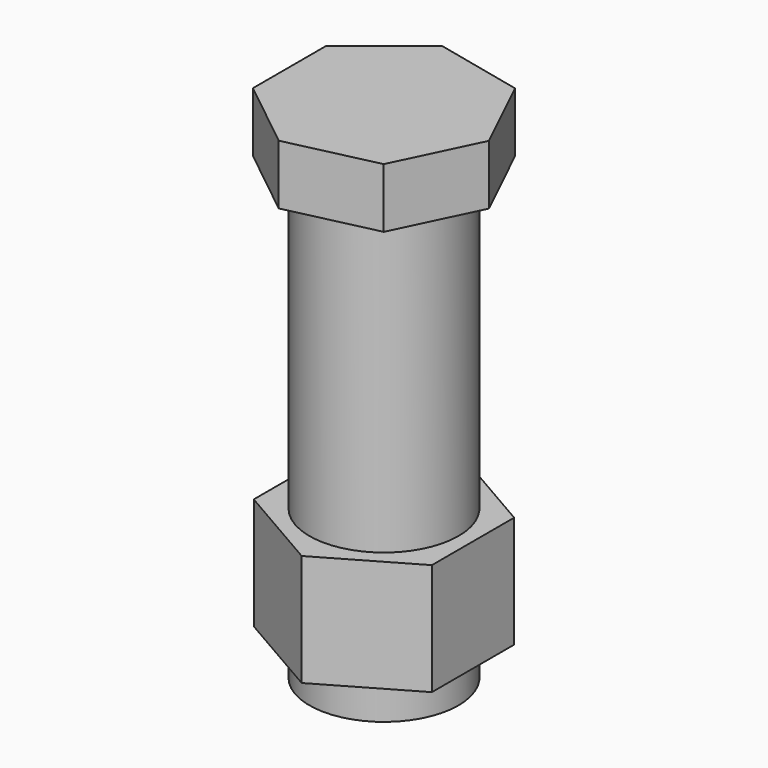
from build123d import *

# Parameters (mm, degrees)
F0_R      = 12.7
F1_DEPTH  = 76.2
F2_R      = 12.7
F3_DEPTH  = 10.16
F4_R      = 12.7
F5_DEPTH  = 25.4
F5_FACE_R = 12.7
F6_DEPTH  = 6.35


with BuildPart() as f1:
    # F0 (on Top) → F1 (new body)
    with BuildSketch(Plane.XY):
        Circle(F0_R)
    extrude(amount=F1_DEPTH)

    # F2 (on face) → F3 (join)
    with BuildSketch(Plane.XY.offset(76.2)):
        Polygon((-16.112782, 7.759507), (-16.112782, -7.759507), (-3.979529, -17.435454), (11.150391, -13.982148), (17.883839, 0), (11.150391, 13.982148), (-3.979529, 17.435454), align=None)
        Circle(F2_R, mode=Mode.SUBTRACT)
        Circle(F2_R)
    extrude(amount=F3_DEPTH)


with BuildPart() as f5:
    # F4 (on face) → F5 (new body)
    with BuildSketch(Plane(origin=(0, 0, 0), x_dir=(1, 0, 0), z_dir=(0, 0, -1))):
        Polygon((-15.171483, 8.75926), (-15.171483, -8.75926), (0, -17.518519), (15.171483, -8.75926), (15.171483, 8.75926), (0, 17.518519), align=None)
        Circle(F4_R, mode=Mode.SUBTRACT)
    extrude(amount=-F5_DEPTH)

    # F5_face (on face) → F6 (cut)
    with BuildSketch(Plane(origin=(0, 0, 0), x_dir=(1, 0, 0), z_dir=(0, 0, -1))):
        Polygon((-15.171483, 8.75926), (-15.171483, -8.75926), (0, -17.518519), (15.171483, -8.75926), (15.171483, 8.75926), (0, 17.518519), align=None)
        Circle(F5_FACE_R, mode=Mode.SUBTRACT)
    extrude(amount=-F6_DEPTH, mode=Mode.SUBTRACT)


solid = Compound([f1.part, f5.part])
